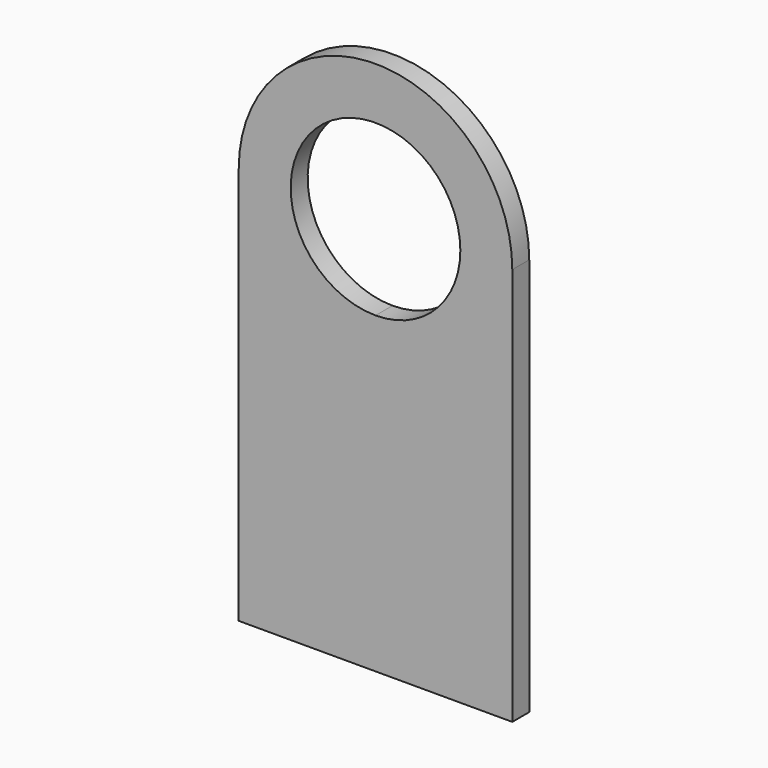
from build123d import *

# Parameters (mm, degrees)
F1_DEPTH = 2.5


with BuildPart() as f1:
    # F0 (on Front) → F1 (new body)
    with BuildSketch(Plane.XZ):
        with BuildLine():
            ThreePointArc((10, 46.943923), (-7.071068, 54.01499), (0, 36.943923))
            ThreePointArc((0, 36.943923), (7.071068, 39.872855), (10, 46.943923))
        make_face()
        with BuildLine():
            Line((-16.124446, 0), (0, 0))
            Line((0, 0), (16.124446, 0))
            Line((16.124446, 0), (16.124446, 46.943923))
            ThreePointArc((16.124446, 46.943923), (0, 63.068368), (-16.124446, 46.943923))
            Line((-16.124446, 46.943923), (-16.124446, 0))
        make_face()
        with BuildLine():
            ThreePointArc((10, 46.943923), (7.071068, 39.872855), (0, 36.943923))
            ThreePointArc((0, 36.943923), (-7.071068, 54.01499), (10, 46.943923))
        make_face(mode=Mode.SUBTRACT)
    extrude(amount=F1_DEPTH)


solid = f1.part
